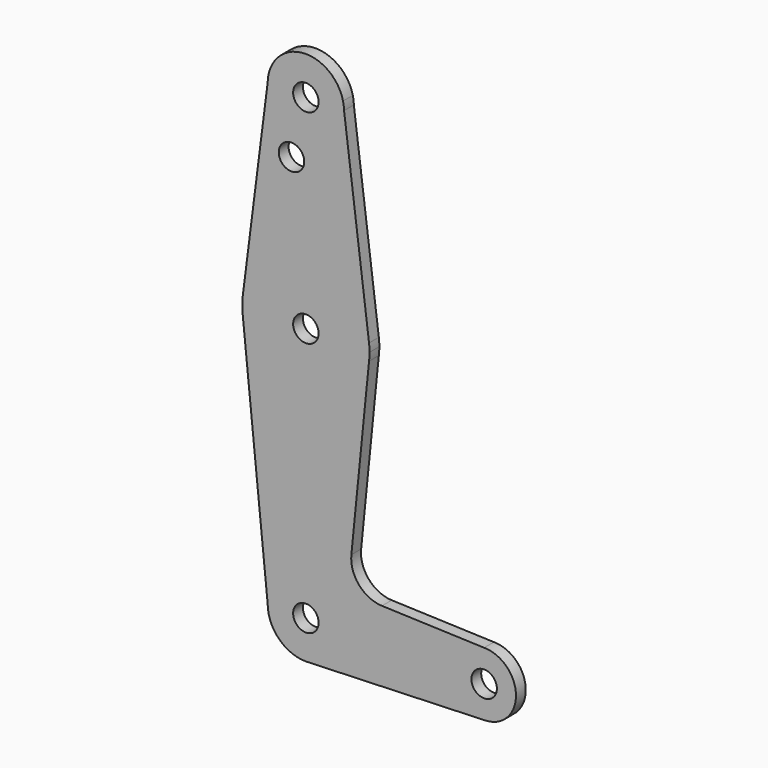
from build123d import *

# Parameters (mm, degrees)
F0_R     = 3.175
F1_DEPTH = 3.048


with BuildPart() as f1:
    # F0 (on Front) → F1 (new body)
    with BuildSketch(Plane.XZ):
        with BuildLine():
            Line((9.5233937206, 114.4749201025), (9.2643173427, 116.5131536717))
            ThreePointArc((9.2643173427, 116.5131536717), (0, 123.825), (-9.2643173427, 116.5131536717))
            Line((-9.2643173427, 116.5131536717), (-9.5233937206, 114.4749201025))
            ThreePointArc((-9.5233937206, 114.4749201025), (-0.0874637388, 104.7754015783), (9.525, 114.3))
            ThreePointArc((9.525, 114.3), (9.5245984217, 114.3874637388), (9.5233937206, 114.4749201025))
        make_face()
        with Locations((0, 114.3)):
            Circle(F0_R, mode=Mode.SUBTRACT)
        with BuildLine():
            ThreePointArc((9.5233937206, 114.4749201025), (9.4489745883, 115.501042976), (9.2643173427, 116.5131536717))
            Line((9.2643173427, 116.5131536717), (9.5233937206, 114.4749201025))
        make_face()
        with BuildLine():
            Line((-9.5233937206, 114.4749201025), (-9.2643173427, 116.5131536717))
            ThreePointArc((-9.2643173427, 116.5131536717), (-9.4489745883, 115.501042976), (-9.5233937206, 114.4749201025))
        make_face()
        with BuildLine():
            Line((15.7482909805, 65.5017382933), (9.5233937206, 114.4749201025))
            ThreePointArc((9.5233937206, 114.4749201025), (9.5245984217, 114.3874637388), (9.525, 114.3))
            ThreePointArc((9.525, 114.3), (-0.0874637388, 104.7754015783), (-9.5233937206, 114.4749201025))
            Line((-9.5233937206, 114.4749201025), (-15.7482909805, 65.5017382933))
            ThreePointArc((-15.7482909805, 65.5017382933), (0, 79.375), (15.7482909805, 65.5017382933))
        make_face()
        with Locations((-3.5819846671, 100.0252)):
            Circle(F0_R, mode=Mode.SUBTRACT)
        with BuildLine():
            ThreePointArc((15.875, 63.5), (15.8432910772, 64.5028722963), (15.7482909805, 65.5017382933))
            ThreePointArc((15.7482909805, 65.5017382933), (0, 79.375), (-15.7482909805, 65.5017382933))
            ThreePointArc((-15.7482909805, 65.5017382933), (-15.875, 63.5), (-15.7482909805, 61.4982617067))
            ThreePointArc((-15.7482909805, 61.4982617067), (0, 47.625), (15.7482909805, 61.4982617067))
            ThreePointArc((15.7482909805, 61.4982617067), (15.8432910772, 62.4971277037), (15.875, 63.5))
        make_face()
        with Locations((0, 63.5)):
            Circle(F0_R, mode=Mode.SUBTRACT)
        with BuildLine():
            ThreePointArc((15.7482909805, 61.4982617067), (0, 47.625), (-15.7482909805, 61.4982617067))
            Line((-15.7482909805, 61.4982617067), (-9.525, 0))
            ThreePointArc((-9.525, 0), (0, 9.525), (9.525, 0))
            ThreePointArc((9.525, 0), (6.9705567315, -6.4912990883), (0.6773435479, -9.500885786))
            Line((0.6773435479, -9.500885786), (44.7324052746, -7.9324746146))
            ThreePointArc((44.7324052746, -7.9324746146), (36.5137564458, -0.1412249921), (44.45, 7.9375))
            Line((44.45, 7.9375), (18.9682950457, 8.8475608912))
            ThreePointArc((18.9682950457, 8.8475608912), (13.2601784119, 11.5662316626), (11.3391947816, 17.5898176511))
            Line((11.3391947816, 17.5898176511), (15.7482909805, 61.4982617067))
        make_face()
        with BuildLine():
            ThreePointArc((9.525, 0), (0, 9.525), (-9.525, 0))
            ThreePointArc((-9.525, 0), (-6.7351920908, -6.7351920908), (0, -9.525))
            Line((0, -9.525), (0.6773435479, -9.500885786))
            ThreePointArc((0.6773435479, -9.500885786), (6.9705567315, -6.4912990883), (9.525, 0))
        make_face()
        Circle(F0_R, mode=Mode.SUBTRACT)
        with BuildLine():
            Line((0.6773435479, -9.500885786), (0, -9.525))
            ThreePointArc((0, -9.525), (0.3388863295, -9.5189695375), (0.6773435479, -9.500885786))
        make_face()
        with BuildLine():
            ThreePointArc((52.3875, 0), (50.0626600757, 5.6126600757), (44.45, 7.9375))
            ThreePointArc((44.45, 7.9375), (36.5137564458, -0.1412249921), (44.7324052746, -7.9324746146))
            ThreePointArc((44.7324052746, -7.9324746146), (50.1616327839, -5.5119104847), (52.3875, 0))
        make_face()
        with Locations((44.45, 0)):
            Circle(F0_R, mode=Mode.SUBTRACT)
        with BuildLine():
            ThreePointArc((9.525, 0), (0, 9.525), (-9.525, 0))
            ThreePointArc((-9.525, 0), (-6.7351920908, -6.7351920908), (0, -9.525))
            Line((0, -9.525), (0.6773435479, -9.500885786))
            ThreePointArc((0.6773435479, -9.500885786), (6.9705567315, -6.4912990883), (9.525, 0))
        make_face()
        Circle(F0_R, mode=Mode.SUBTRACT)
    extrude(amount=F1_DEPTH)


solid = f1.part
